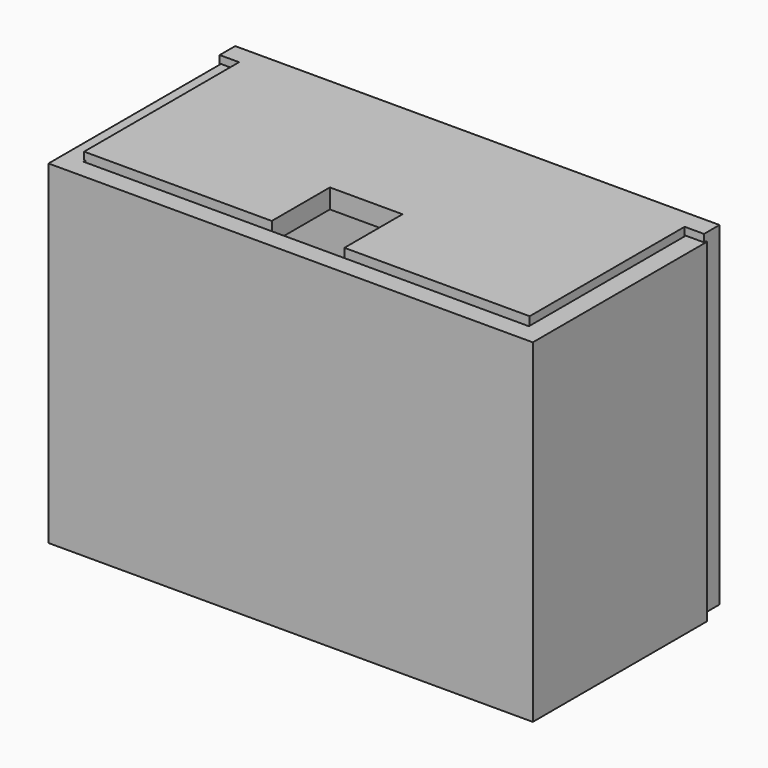
from build123d import *

# Parameters (mm, degrees)
SKETCH_W                = 100
SKETCH_H                = 45
PAD_DEPTH               = 9
SKETCH001_W             = 72
SKETCH001_H             = 25
POCKET_DEPTH            = 9.001
SKETCH002_W             = 100
SKETCH002_H             = 4
SKETCH002_W_2           = 4
SKETCH002_H_2           = 41
PAD001_DEPTH            = 60
SKETCH003_W             = 6
SKETCH003_H             = 19
POCKET001_DEPTH         = 4
SKETCH004_W             = 44
SKETCH004_H             = 7
POCKET002_DEPTH         = 3
SKETCH005_W             = 100
SKETCH005_H             = 69
PAD002_DEPTH            = 4
SKETCH006_W             = 5
SKETCH006_H             = 60
SKETCH006_W_2           = 82
SKETCH006_H_2           = 4
PAD003_DEPTH            = 6
SKETCH007_W             = 92
SKETCH007_H             = 4
PAD004_DEPTH            = 34
SKETCH008_W             = 15
SKETCH008_H             = 4
POCKET003_DEPTH         = 15
BODY001_PLACEMENT_ANGLE = 180


with BuildPart() as maincase:
    # Sketch → Pad (new body)
    with BuildSketch(Plane.XY):
        Rectangle(SKETCH_W, SKETCH_H)
    extrude(amount=PAD_DEPTH)

    # Sketch001 (on Face6 of Pad) → Pocket (cut, through all)
    with BuildSketch(Plane.XY.offset(9)):
        Rectangle(SKETCH001_W, SKETCH001_H)
    extrude(amount=-POCKET_DEPTH, mode=Mode.SUBTRACT)

    # Sketch002 (on Face5 of Pocket) → Pad001 (join)
    with BuildSketch(Plane.XY.offset(9)):
        with Locations((0, -20.5)):
            Rectangle(SKETCH002_W, SKETCH002_H)
        with Locations((-48, 2)):
            Rectangle(SKETCH002_W_2, SKETCH002_H_2)
        with Locations((48, 2)):
            Rectangle(SKETCH002_W_2, SKETCH002_H_2)
    extrude(amount=PAD001_DEPTH)

    # Sketch003 (on Face6 of Pad001) → Pocket001 (cut)
    with BuildSketch(Plane.XY.offset(9)):
        with Locations((-39, 0)):
            Rectangle(SKETCH003_W, SKETCH003_H)
    extrude(amount=-POCKET001_DEPTH, mode=Mode.SUBTRACT)

    # Sketch004 (on Face6 of Pocket001) → Pocket002 (cut)
    with BuildSketch(Plane.XY.offset(9)):
        with Locations((14, 16)):
            Rectangle(SKETCH004_W, SKETCH004_H)
    extrude(amount=-POCKET002_DEPTH, mode=Mode.SUBTRACT)


with BuildPart() as cover:
    # Sketch005 → Pad002 (new body)
    with BuildSketch(Plane.XZ):
        with Locations((0.248951, -63.03831)):
            Rectangle(SKETCH005_W, SKETCH005_H)
    extrude(amount=PAD002_DEPTH)

    # Sketch006 (on Face6 of Pad002) → Pad003 (join)
    with BuildSketch(Plane.XZ.offset(4)):
        with Locations((-43.251049, -67.53831)):
            Rectangle(SKETCH006_W, SKETCH006_H)
        with Locations((43.748951, -67.53831)):
            Rectangle(SKETCH006_W, SKETCH006_H)
        with Locations((0.248951, -95.53831)):
            Rectangle(SKETCH006_W_2, SKETCH006_H_2)
    extrude(amount=PAD003_DEPTH)

    # Sketch007 (on Face17 of Pad003) → Pad004 (join)
    with BuildSketch(Plane.XZ.offset(10)):
        with Locations((0.248951, -95.53831)):
            Rectangle(SKETCH007_W, SKETCH007_H)
    extrude(amount=PAD004_DEPTH)

    # Sketch008 (on Face23 of Pad004) → Pocket003 (cut)
    with BuildSketch(Plane.XZ.offset(44)):
        with Locations((0, -95.53831)):
            Rectangle(SKETCH008_W, SKETCH008_H)
    extrude(amount=-POCKET003_DEPTH, mode=Mode.SUBTRACT)


with BuildPart() as cover_1:
    # Body001 placement: moved
    add(cover.part.moved(Location((0, 26, -27))).rotate(Axis((0, 26, -27), (0, 1, 0)), BODY001_PLACEMENT_ANGLE))


solid = Compound([maincase.part, cover_1.part])
